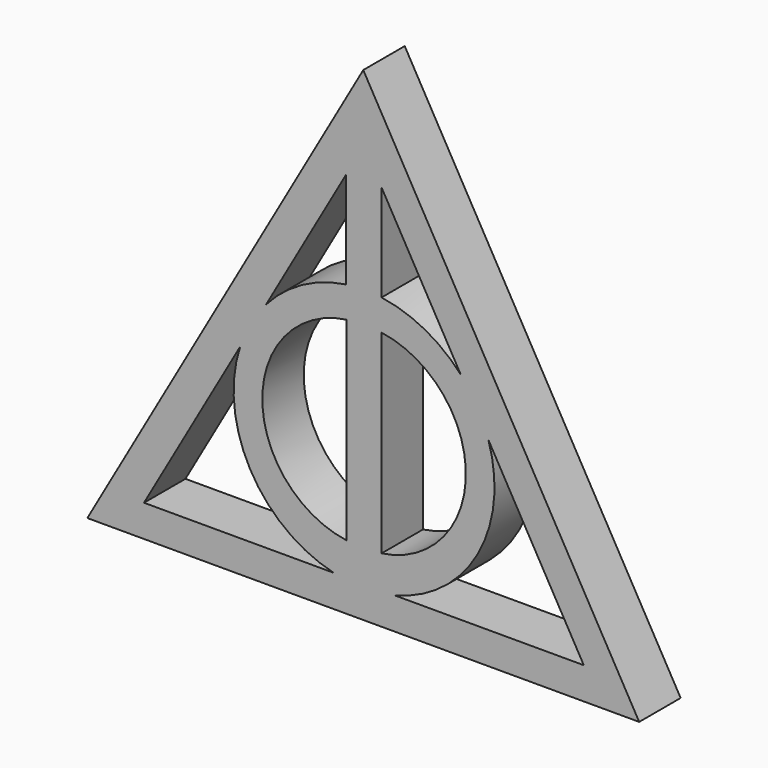
from build123d import *

# Parameters (mm, degrees)
F1_DEPTH = 3.4671
F3_DEPTH = 3.4671


with BuildPart() as f1:
    # F0 (on Front) → F1 (new body, symmetric)
    with BuildSketch(Plane.XZ):
        with BuildLine():
            ThreePointArc((-6.109759, -54.209232), (-2.337391, -54.560416), (1.434976, -54.209232))
            ThreePointArc((1.434976, -54.209232), (15.105103, -36.31727), (0, -19.61905))
            ThreePointArc((0, -19.61905), (-2.337391, -19.35588), (-4.674783, -19.61905))
            ThreePointArc((-4.674783, -19.61905), (-19.779886, -36.31727), (-6.109759, -54.209232))
        make_face()
        with BuildLine():
            ThreePointArc((-4.674783, -49.768269), (-15.959539, -36.759722), (-4.674783, -23.751175))
            Line((-4.674783, -23.751175), (-4.674783, -49.768269))
        make_face(mode=Mode.SUBTRACT)
        with BuildLine():
            ThreePointArc((0, -23.751175), (11.284756, -36.759722), (0, -49.768269))
            Line((0, -49.768269), (0, -23.751175))
        make_face(mode=Mode.SUBTRACT)
    extrude(amount=F1_DEPTH, both=True)

    # F2 (on Front) → F3 (join, symmetric)
    with BuildSketch(Plane.XZ):
        Polygon((34.482322, -58.411262), (-2.444447, 6.384362), (-39.371216, -58.411262), align=None)
        with BuildLine():
            Line((0, -19.747701), (0, -6.65056))
            Line((0, -6.65056), (27.065229, -54.14208))
            Line((27.065229, -54.14208), (-31.788915, -54.14208))
            Line((-31.788915, -54.14208), (-4.723686, -6.65056))
            Line((-4.723686, -6.65056), (-4.723686, -19.747701))
            ThreePointArc((-4.723686, -19.747701), (-2.361843, -19.393884), (0, -19.747701))
        make_face(mode=Mode.SUBTRACT)
    extrude(amount=F3_DEPTH, both=True)


solid = f1.part
